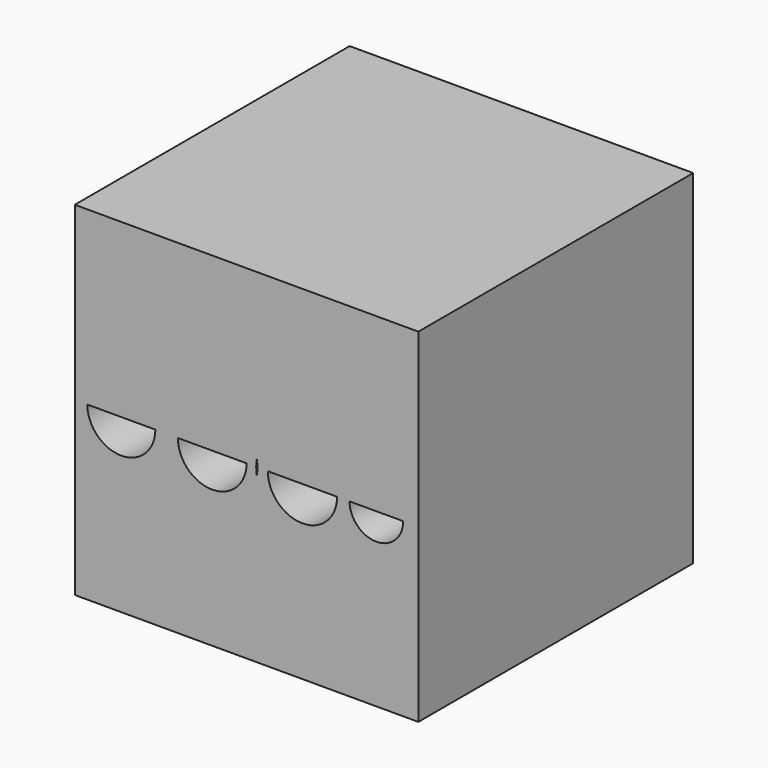
from build123d import *

# Parameters (mm, degrees)
F0_W     = 127
F0_H     = 43.0744847506
F1_DEPTH = 127


with BuildPart() as f1:
    # F0 (on Front) → F1 (new body)
    with BuildSketch(Plane.XZ):
        with Locations((0, 41.9627576247)):
            Rectangle(F0_W, F0_H)
        with Locations((0, -41.9627576247)):
            Rectangle(F0_W, F0_H)
        with BuildLine():
            Line((63.5, -20.4255152494), (63.5, 0))
            Line((63.5, 0), (60.0370731576, 0))
            ThreePointArc((60.0370731576, 0), (50.5451090429, -11.7795835352), (37.0166287351, -5.0093404391))
            ThreePointArc((37.0166287351, -5.0093404391), (19.5052616542, -17.06006857), (3.7896064307, -2.7462219024))
            ThreePointArc((3.7896064307, -2.7462219024), (-14.0682122313, -16.6503534924), (-29.3976705132, 0))
            Line((-29.3976705132, 0), (-29.8486748192, 0))
            ThreePointArc((-29.8486748192, 0), (-46.2897717953, -16.4410969761), (-62.7308687714, 0))
            Line((-62.7308687714, 0), (-63.5, 0))
            Line((-63.5, 0), (-63.5, -20.4255152494))
            Line((-63.5, -20.4255152494), (63.5, -20.4255152494))
        make_face()
        with BuildLine():
            Line((63.5, 0), (63.5, 20.4255152494))
            Line((63.5, 20.4255152494), (-63.5, 20.4255152494))
            Line((-63.5, 20.4255152494), (-63.5, 0))
            Line((-63.5, 0), (-62.7308687714, 0))
            ThreePointArc((-62.7308687714, 0), (-46.2897717953, 16.4410969761), (-29.8486748192, 0))
            Line((-29.8486748192, 0), (-29.3976705132, 0))
            ThreePointArc((-29.3976705132, 0), (-14.0682122313, 16.6503534924), (3.7896064307, 2.7462219024))
            ThreePointArc((3.7896064307, 2.7462219024), (19.5052616542, 17.06006857), (37.0166287351, 5.0093404391))
            ThreePointArc((37.0166287351, 5.0093404391), (50.5451090429, 11.7795835352), (60.0370731576, 0))
            Line((60.0370731576, 0), (63.5, 0))
        make_face()
        with BuildLine():
            ThreePointArc((-29.3976705132, 0), (-14.0682122313, -16.6503534924), (3.7896064307, -2.7462219024))
            ThreePointArc((3.7896064307, -2.7462219024), (3.6232234507, -1.3775887394), (3.5676420141, 0))
            Line((3.5676420141, 0), (0, 0))
            ThreePointArc((0, 0), (-12.6904081553, -12.6904081553), (-25.3808163106, 0))
            Line((-25.3808163106, 0), (-29.3976705132, 0))
        make_face()
        with BuildLine():
            ThreePointArc((3.5676420141, 0), (3.6232234507, 1.3775887394), (3.7896064307, 2.7462219024))
            ThreePointArc((3.7896064307, 2.7462219024), (-14.0682122313, 16.6503534924), (-29.3976705132, 0))
            Line((-29.3976705132, 0), (-25.3808163106, 0))
            Line((-25.3808163106, 0), (0, 0))
            Line((0, 0), (3.5676420141, 0))
        make_face()
        with BuildLine():
            ThreePointArc((-29.8486748192, 0), (-46.2897717953, 16.4410969761), (-62.7308687714, 0))
            Line((-62.7308687714, 0), (-58.8593184948, 0))
            Line((-58.8593184948, 0), (-33.7202250957, 0))
            Line((-33.7202250957, 0), (-29.8486748192, 0))
        make_face()
        with BuildLine():
            ThreePointArc((35.9265762941, 0), (36.2022411907, 2.563284317), (37.0166287351, 5.0093404391))
            ThreePointArc((37.0166287351, 5.0093404391), (19.5052616542, 17.06006857), (3.7896064307, 2.7462219024))
            ThreePointArc((3.7896064307, 2.7462219024), (3.9599453371, 1.377804076), (4.0168542025, 0))
            Line((4.0168542025, 0), (7.8559666872, 0))
            Line((7.8559666872, 0), (33.4785059094, 0))
            Line((33.4785059094, 0), (35.9265762941, 0))
        make_face()
        with BuildLine():
            Line((57.8924268484, 0), (60.0370731576, 0))
            ThreePointArc((60.0370731576, 0), (50.5451090429, 11.7795835352), (37.0166287351, 5.0093404391))
            ThreePointArc((37.0166287351, 5.0093404391), (37.5782401442, 2.5326021424), (37.7668305826, 0))
            Line((37.7668305826, 0), (38.0712226033, 0))
            Line((38.0712226033, 0), (57.8924268484, 0))
        make_face()
        with BuildLine():
            ThreePointArc((37.0166287351, -5.0093404391), (50.5451090429, -11.7795835352), (60.0370731576, 0))
            Line((60.0370731576, 0), (57.8924268484, 0))
            ThreePointArc((57.8924268484, 0), (47.9818247259, -9.9106021225), (38.0712226033, 0))
            Line((38.0712226033, 0), (37.7668305826, 0))
            ThreePointArc((37.7668305826, 0), (37.5782401442, -2.5326021424), (37.0166287351, -5.0093404391))
        make_face()
        with BuildLine():
            ThreePointArc((35.9265762941, 0), (36.2022411907, -2.563284317), (37.0166287351, -5.0093404391))
            ThreePointArc((37.0166287351, -5.0093404391), (37.5782401442, -2.5326021424), (37.7668305826, 0))
            Line((37.7668305826, 0), (35.9265762941, 0))
        make_face()
        with BuildLine():
            ThreePointArc((37.7668305826, 0), (37.5782401442, 2.5326021424), (37.0166287351, 5.0093404391))
            ThreePointArc((37.0166287351, 5.0093404391), (36.2022411907, 2.563284317), (35.9265762941, 0))
            Line((35.9265762941, 0), (37.7668305826, 0))
        make_face()
        with BuildLine():
            ThreePointArc((3.7896064307, -2.7462219024), (19.5052616542, -17.06006857), (37.0166287351, -5.0093404391))
            ThreePointArc((37.0166287351, -5.0093404391), (36.2022411907, -2.563284317), (35.9265762941, 0))
            Line((35.9265762941, 0), (33.4785059094, 0))
            ThreePointArc((33.4785059094, 0), (20.6672362983, -12.8112696111), (7.8559666872, 0))
            Line((7.8559666872, 0), (4.0168542025, 0))
            ThreePointArc((4.0168542025, 0), (3.9599453371, -1.377804076), (3.7896064307, -2.7462219024))
        make_face()
        with BuildLine():
            Line((-58.8593184948, 0), (-62.7308687714, 0))
            ThreePointArc((-62.7308687714, 0), (-46.2897717953, -16.4410969761), (-29.8486748192, 0))
            Line((-29.8486748192, 0), (-33.7202250957, 0))
            ThreePointArc((-33.7202250957, 0), (-46.2897717953, -12.5695466995), (-58.8593184948, 0))
        make_face()
    extrude(amount=F1_DEPTH)


solid = f1.part
